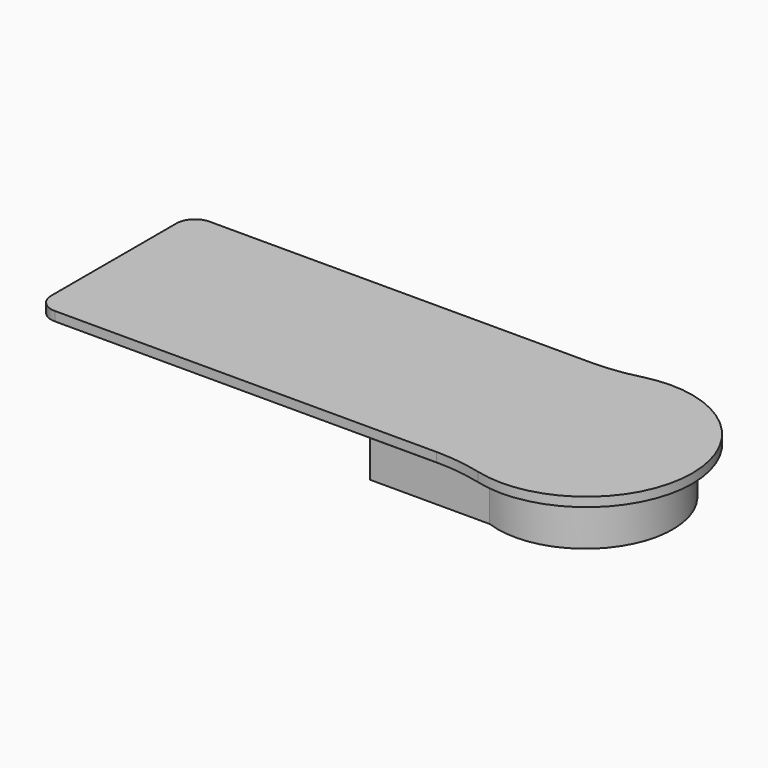
from build123d import *

# Parameters (mm, degrees)
PAD003_DEPTH = 1
PAD004_DEPTH = 1
FILLET012_R  = 20
FILLET013_R  = 2
FILLET014_R  = 2
FILLET015_R  = 20
PAD005_DEPTH = 4


with BuildPart() as part:
    # Sketch008 → Pad003 (new body)
    with BuildSketch(Plane.XY.offset(94)):
        with BuildLine():
            Line((0.012651, 21), (46.627451, 21))
            ThreePointArc((46.627451, 0), (62.817867, 10.5), (46.627451, 21))
            Line((46.627451, 0), (0.012651, 0))
            Line((0.012651, 0), (0.012651, 21))
        make_face()
    extrude(amount=PAD003_DEPTH)

    # Sketch010 → Pad004 (new body)
    with BuildSketch(Plane(origin=(0, 0, 94), x_dir=(1, 0, 0), z_dir=(0, 0, -1))):
        with BuildLine():
            Line((1.500068, -19.50111), (48.401309, -19.50111))
            ThreePointArc((48.401309, -19.50111), (60.857293, -10.384488), (48.233904, -1.50111))
            Line((1.500068, -1.50111), (48.233904, -1.50111))
            Line((1.500068, -1.50111), (1.500068, -19.50111))
        make_face()
    extrude(amount=PAD004_DEPTH)

    # Fillet012
    fillet012_edges = [part.edges().sort_by_distance(p)[0] for p in [
        (46.627451, 21, 94.5),
    ]]
    fillet(fillet012_edges, radius=FILLET012_R)

    # Fillet013
    fillet013_edges = [part.edges().sort_by_distance(p)[0] for p in [
        (0.012651, 21, 94.5),
    ]]
    fillet(fillet013_edges, radius=FILLET013_R)

    # Fillet014
    fillet014_edges = [part.edges().sort_by_distance(p)[0] for p in [
        (0.012651, 0, 94.5),
    ]]
    fillet(fillet014_edges, radius=FILLET014_R)

    # Fillet015
    fillet015_edges = [part.edges().sort_by_distance(p)[0] for p in [
        (46.627451, 0, 94.5),
    ]]
    fillet(fillet015_edges, radius=FILLET015_R)

    # Sketch011 → Pad005 (new body)
    with BuildSketch(Plane(origin=(0, 0, 93), x_dir=(1, 0, 0), z_dir=(0, 0, -1))):
        with BuildLine():
            Line((35.099449, -19.488966), (48.43856, -19.488966))
            ThreePointArc((48.43856, -19.488966), (60.760017, -10.202199), (48.02877, -1.485682))
            Line((35.023422, -1.485682), (48.02877, -1.485682))
            Line((35.023422, -1.485682), (35.099449, -19.488966))
        make_face()
    extrude(amount=PAD005_DEPTH)


solid = part.part
